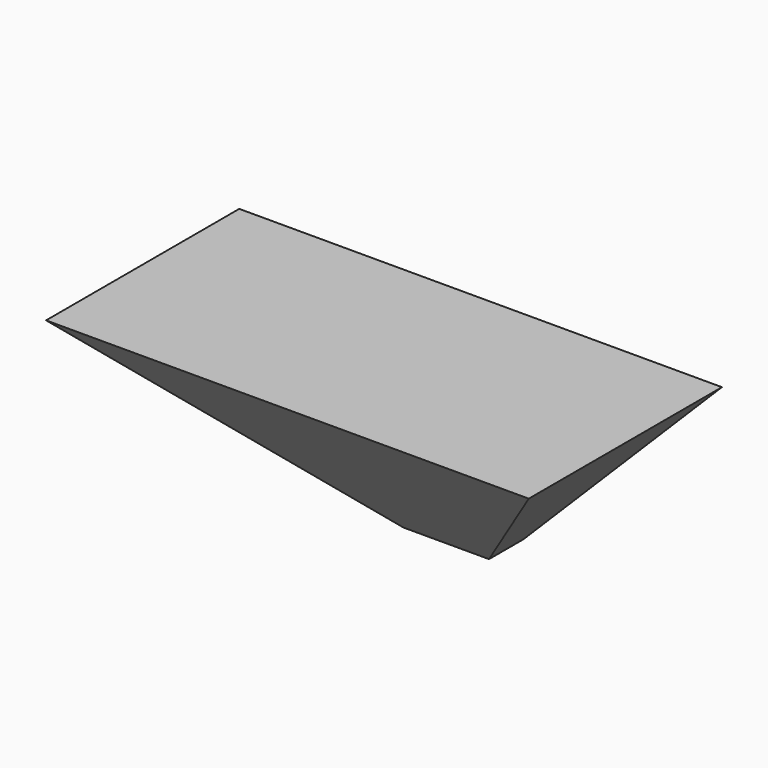
from build123d import *

# Parameters (mm, degrees)
F0_W     = 545.846
F0_H     = 273.05
F1_DEPTH = 317.5
F4_DEPTH = 545.847
F5_DEPTH = 273.051


with BuildPart() as f1:
    # F0 (on Top) → F1 (new body)
    with BuildSketch(Plane.XY):
        with Locations((18.801767, 15.887847)):
            Rectangle(F0_W, F0_H)
    extrude(amount=F1_DEPTH)

    # F3 (on face) → F4 (cut, through all)
    with BuildSketch(Plane(origin=(-254.121233, 0, 0), x_dir=(0, -1, 0), z_dir=(-1, 0, 0))):
        Polygon((-103.856937, 92.9894), (-152.412847, 92.9894), (-152.412847, 0), (120.637153, 0), (120.637153, 317.5), align=None)
    extrude(amount=-F4_DEPTH, mode=Mode.SUBTRACT)

    # F2 (on face) → F5 (cut, through all)
    with BuildSketch(Plane(origin=(0, 152.412847, 0), x_dir=(-1, 0, 0), z_dir=(0, 1, 0))):
        Polygon((-63.378767, 0), (25.775233, 0), (254.121233, 0), (254.121233, 317.5), (29.610633, 92.9894), (-67.214167, 92.9894), (-291.724767, 317.5), (-291.724767, 0), align=None)
    extrude(amount=-F5_DEPTH, mode=Mode.SUBTRACT)


solid = f1.part
